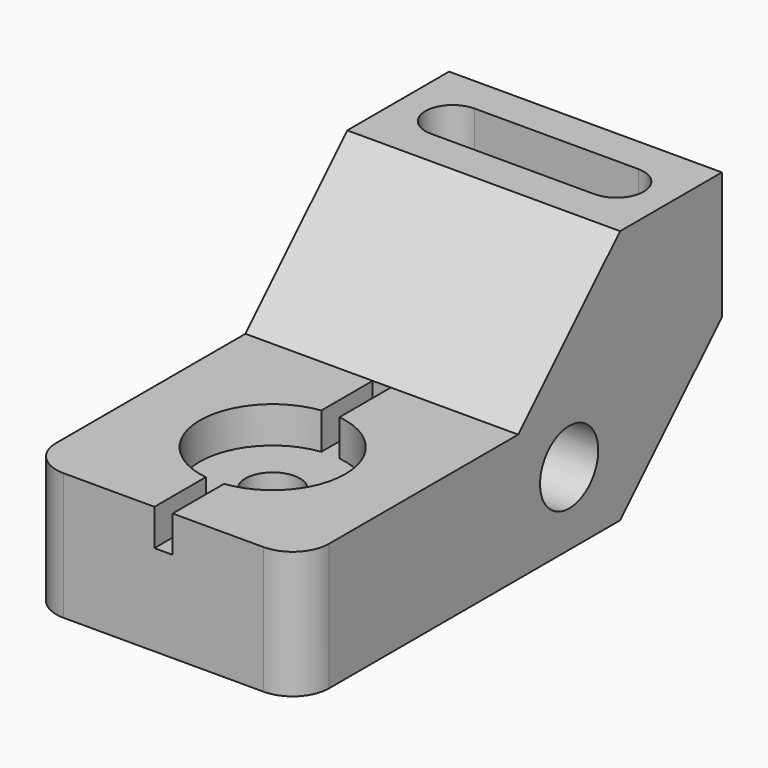
from build123d import *

# Parameters (mm, degrees)
F0_W           = 76.2
F0_H           = 71.12
F1_DEPTH       = 73.66
F3_DEPTH       = 76.201
F4_R           = 10.16
F5_DEPTH       = 76.201
F7_DEPTH       = 71.121
F9_D           = 15.24
F9_CBORE_D     = 40.64
F9_CBORE_DEPTH = 10.16
F10_W          = 5.08
F10_H          = 10.16
F11_DEPTH      = 76.2
F12_R          = 10.16


with BuildPart() as f1:
    # F0 (on Front) → F1 (new body, symmetric)
    with BuildSketch(Plane.XZ):
        with Locations((0, 35.56)):
            Rectangle(F0_W, F0_H)
    extrude(amount=F1_DEPTH, both=True)

    # F2 (on face) → F3 (cut, through all)
    with BuildSketch(Plane.YZ.offset(38.1)):
        Polygon((38.1, 71.12), (-73.66, 71.12), (-73.66, 35.56), (2.54, 35.56), align=None)
        Polygon((38.1, 0), (73.66, 0), (73.66, 35.56), align=None)
    extrude(amount=-F3_DEPTH, mode=Mode.SUBTRACT)

    # F4 (on face) → F5 (cut, through all)
    with BuildSketch(Plane.YZ.offset(38.1)):
        with Locations((20.32, 20.32)):
            Circle(F4_R)
    extrude(amount=-F5_DEPTH, mode=Mode.SUBTRACT)

    # F6 (on face) → F7 (cut, through all)
    with BuildSketch(Plane.XY.offset(71.12)):
        with BuildLine():
            Line((22.86, 63.5), (-22.86, 63.5))
            ThreePointArc((-22.86, 63.5), (-30.48, 55.88), (-22.86, 48.26))
            Line((-22.86, 48.26), (22.86, 48.26))
            ThreePointArc((22.86, 48.26), (30.48, 55.88), (22.86, 63.5))
        make_face()
    extrude(amount=-F7_DEPTH, mode=Mode.SUBTRACT)

    # F9 (through all)
    with Locations(Plane.XY.offset(35.56)):
        with Locations((0, -35.56)):
            CounterBoreHole(F9_D / 2, F9_CBORE_D / 2, F9_CBORE_DEPTH)

    # F10 (on face) → F11 (cut)
    with BuildSketch(Plane.XZ.offset(73.66)):
        with Locations((0, 30.48)):
            Rectangle(F10_W, F10_H)
    extrude(amount=-F11_DEPTH, mode=Mode.SUBTRACT)

    # F12
    f12_edges = [f1.edges().sort_by_distance(p)[0] for p in [
        (38.1, -73.66, 17.78),
        (-38.1, -73.66, 17.78),
    ]]
    fillet(f12_edges, radius=F12_R)


solid = f1.part
